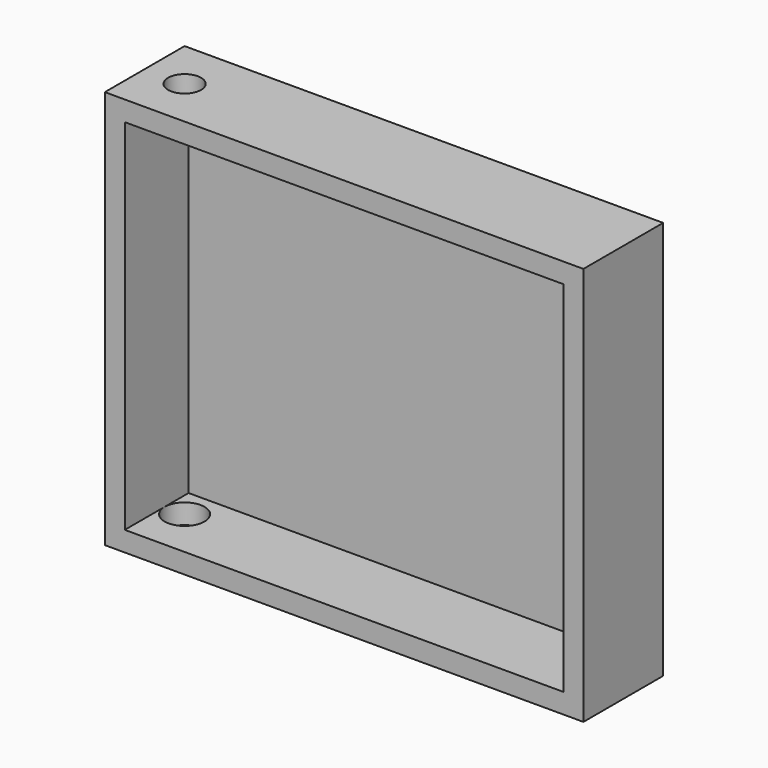
from build123d import *

# Parameters (mm, degrees)
F0_W      = 120
F0_H      = 100
F1_DEPTH  = 25
F2_W      = 110
F2_H      = 90
F3_DEPTH  = 20
F4_R      = 5
F3_FACE_W = 110
F3_FACE_H = 20
F5_DEPTH  = 10
F6_R      = 4.1325775989
F7_DEPTH  = 10


with BuildPart() as f1:
    # F0 (on Front) → F1 (new body)
    with BuildSketch(Plane.XZ):
        Rectangle(F0_W, F0_H)
    extrude(amount=F1_DEPTH)

    # F2 (on face) → F3 (cut)
    with BuildSketch(Plane.XZ.offset(25)):
        Rectangle(F2_W, F2_H)
    extrude(amount=-F3_DEPTH, mode=Mode.SUBTRACT)

    # F4 (on face) + F3_face (on face) → F5 (cut)
    with BuildSketch(Plane(origin=(0, 0, -50), x_dir=(1, 0, 0), z_dir=(0, 0, -1))):
        with Locations((-50, 12.5)):
            Circle(F4_R)
    with BuildSketch(Plane(origin=(0, -15, -45), x_dir=(1, 0, 0), z_dir=(0, 0, 1))):
        Rectangle(F3_FACE_W, F3_FACE_H)
    extrude(amount=-F5_DEPTH, dir=(0, 0, -1), mode=Mode.SUBTRACT)

    # F6 (on face) → F7 (cut)
    with BuildSketch(Plane.XY.offset(50)):
        with Locations((-50, -12.5)):
            Circle(F6_R)
    extrude(amount=-F7_DEPTH, mode=Mode.SUBTRACT)


solid = f1.part
